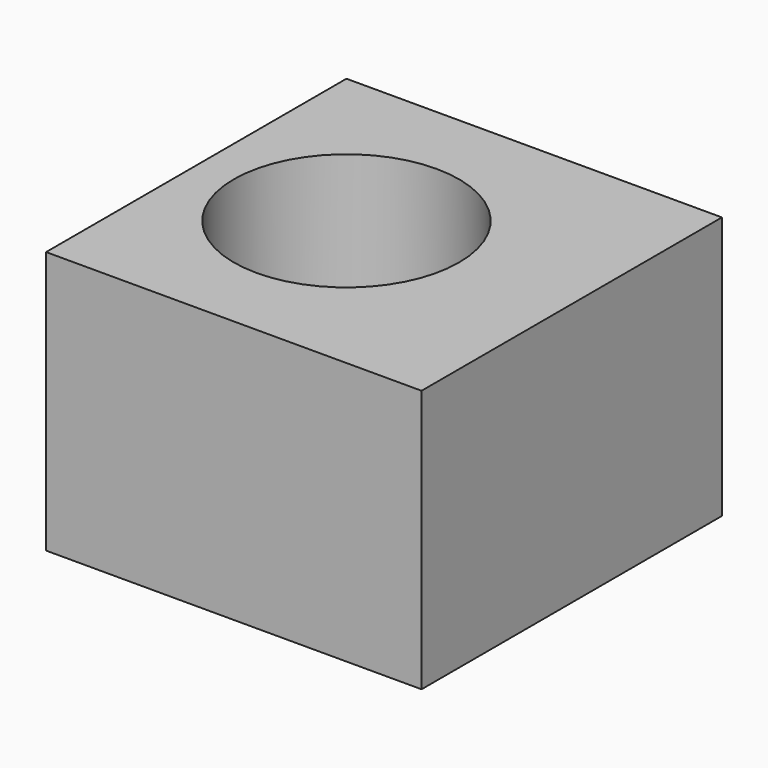
from build123d import *

# Parameters (mm, degrees)
CYLINDER_R     = 1.5
CYLINDER_DEPTH = 10
BOX008_W       = 5
BOX008_H       = 5
BOX008_DEPTH   = 3.5


with BuildPart() as hole:
    # Cylinder → Cylinder (new body)
    with BuildSketch(Plane(origin=(4, 5.5, 0), x_dir=(1, 0, 0), z_dir=(0, 0, 1))):
        Circle(CYLINDER_R)
    extrude(amount=CYLINDER_DEPTH)


with BuildPart() as stand_hole_cut:
    # Box008 → Box008 (new body)
    with BuildSketch(Plane(origin=(2, 3, 0), x_dir=(1, 0, 0), z_dir=(0, 0, 1))):
        with Locations((2.5, 2.5)):
            Rectangle(BOX008_W, BOX008_H)
    extrude(amount=BOX008_DEPTH)

    # Cut003002: cut hole
    add(hole.part, mode=Mode.SUBTRACT)


solid = stand_hole_cut.part
